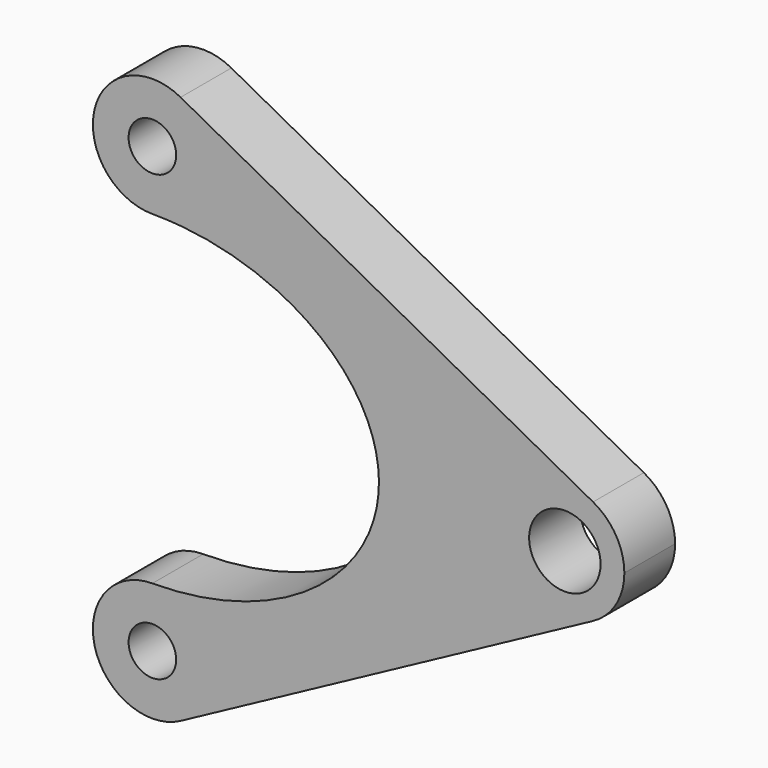
from build123d import *

# Parameters (mm, degrees)
F0_R     = 3
F0_R_2   = 4.5
F1_DEPTH = 8


with BuildPart() as f1:
    # F0 (on Front) → F1 (new body)
    with BuildSketch(Plane.XZ):
        with BuildLine():
            ThreePointArc((0, 20.5), (5.3033008589, 22.6966991411), (7.5, 28))
            ThreePointArc((7.5, 28), (6.4388708267, 31.8458994367), (3.5557486728, 34.6035332494))
            ThreePointArc((3.5557486728, 34.6035332494), (-7.2724307962, 29.8335076533), (0, 20.5))
        make_face()
        with Locations((0, 28)):
            Circle(F0_R, mode=Mode.SUBTRACT)
        with BuildLine():
            ThreePointArc((3.5557486728, 34.6035332494), (6.4388708267, 31.8458994367), (7.5, 28))
            ThreePointArc((7.5, 28), (5.3033008589, 22.6966991411), (0, 20.5))
            add(Edge.make_bspline(
                [(0, -20.5), (28.5625234834, -20.5), (28.5625234834, 0), (28.5625234834, 20.5), (0, 20.5)],
                knots=[4.7123889804, 4.7123889804, 4.7123889804, 6.2831853072, 6.2831853072, 7.853981634, 7.853981634, 7.853981634], degree=2, weights=[1, 0.7071067812, 1, 0.7071067812, 1]))
            ThreePointArc((0, -20.5), (5.3033008589, -22.6966991411), (7.5, -28))
            ThreePointArc((7.5, -28), (6.4388708267, -31.8458994367), (3.5557486728, -34.6035332494))
            Line((3.5557486728, -34.6035332494), (55.5557486728, -6.6035332494))
            ThreePointArc((55.5557486728, -6.6035332494), (44.5, 0), (55.5557486728, 6.6035332494))
            Line((55.5557486728, 6.6035332494), (3.5557486728, 34.6035332494))
        make_face()
        with BuildLine():
            ThreePointArc((59.5, 0), (58.4388708267, 3.8458994367), (55.5557486728, 6.6035332494))
            ThreePointArc((55.5557486728, 6.6035332494), (44.5, 0), (55.5557486728, -6.6035332494))
            ThreePointArc((55.5557486728, -6.6035332494), (58.4388708267, -3.8458994367), (59.5, 0))
        make_face()
        with Locations((52, 0)):
            Circle(F0_R_2, mode=Mode.SUBTRACT)
        with BuildLine():
            ThreePointArc((7.5, -28), (5.3033008589, -22.6966991411), (0, -20.5))
            ThreePointArc((0, -20.5), (-7.2724307962, -29.8335076533), (3.5557486728, -34.6035332494))
            ThreePointArc((3.5557486728, -34.6035332494), (6.4388708267, -31.8458994367), (7.5, -28))
        make_face()
        with Locations((0, -28)):
            Circle(F0_R, mode=Mode.SUBTRACT)
    extrude(amount=F1_DEPTH)


solid = f1.part
